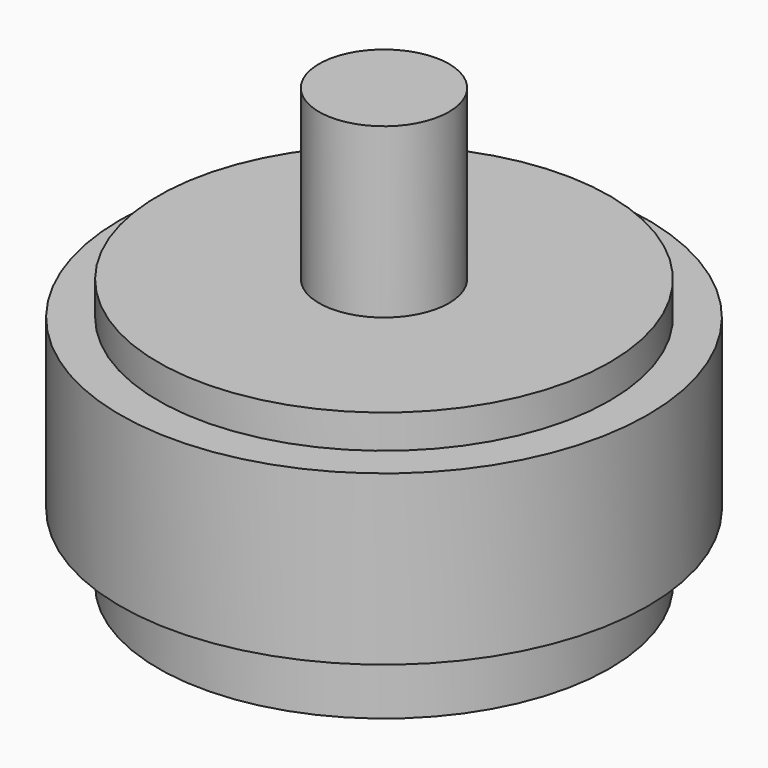
from build123d import *

# Parameters (mm, degrees)
F0_R      = 33.5
F0_R_2    = 30
F1_DEPTH  = 40
F2_DEPTH  = 5
F4_R      = 22.5
F5_DEPTH  = 15
F6_R      = 9.648843
F7_DEPTH  = 25
F9_R      = 39.178288
F10_DEPTH = 25


with BuildPart() as f1:
    # F0 (on Top) → F1 (new body)
    with BuildSketch(Plane.XY):
        Circle(F0_R)
        Circle(F0_R_2, mode=Mode.SUBTRACT)
        Circle(F0_R_2)
    extrude(amount=F1_DEPTH)

    # F0 (on Top) → F2 (cut)
    with BuildSketch(Plane.XY):
        Circle(F0_R_2)
    extrude(amount=F2_DEPTH, mode=Mode.SUBTRACT)

    # F4 (on face) → F5 (cut)
    with BuildSketch(Plane.XY):
        Circle(F4_R)
    extrude(amount=F5_DEPTH, mode=Mode.SUBTRACT)

    # F6 (on face) → F7 (join)
    with BuildSketch(Plane.XY.offset(40)):
        Circle(F6_R)
    extrude(amount=F7_DEPTH)

    # F9 (on offset) → F10 (join)
    with BuildSketch(Plane.XY.offset(10)):
        Circle(F9_R)
    extrude(amount=F10_DEPTH)


solid = f1.part
